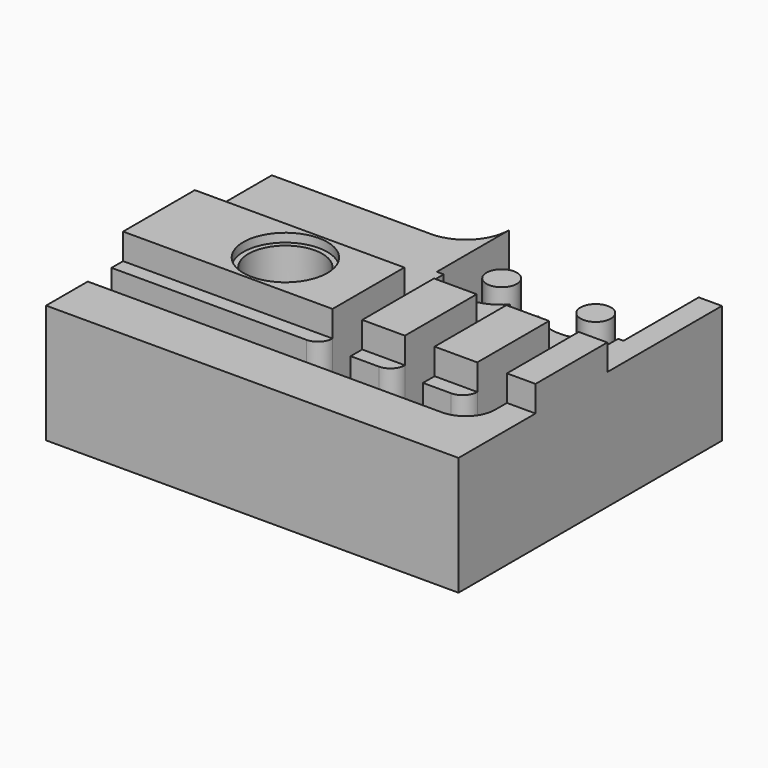
from build123d import *

# Parameters (mm, degrees)
PAD004_DEPTH    = 8.2
SKETCH014_W     = 28.5
SKETCH014_H     = 6.2
PAD005_DEPTH    = 1.8
SKETCH015_R     = 2.9
POCKET004_DEPTH = 0.6
SKETCH016_W     = 2.05
SKETCH016_H     = 6.2
POCKET005_DEPTH = 1.8
SKETCH018_R     = 1.05
POCKET007_DEPTH = 6
POCKET006_DEPTH = 4
SKETCH019_R     = 2.55
POCKET008_DEPTH = 7.5
SKETCH020_R     = 7
POCKET_DEPTH    = 3


with BuildPart() as stage_1_railguide:
    # Sketch013 → Pad004 (new body)
    with BuildSketch(Plane.XY):
        with BuildLine():
            Line((0, 0), (28.5, 0))
            Line((28.5, 0), (28.5, 22.75))
            Line((28.5, 22.75), (14, 22.75))
            Line((14, 22.75), (14, 22.5))
            ThreePointArc((11, 19.5), (13.12132, 20.37868), (14, 22.5))
            Line((11, 19.5), (0, 19.5))
            Line((0, 19.5), (0, 0))
        make_face()
    extrude(amount=PAD004_DEPTH)

    # Sketch014 (on Face9 of Pad004) → Pad005 (join)
    with BuildSketch(Plane.XY.offset(8.2)):
        with Locations((14.25, 9.75)):
            Rectangle(SKETCH014_W, SKETCH014_H)
    extrude(amount=PAD005_DEPTH)

    # Sketch015 (on Face11 of Pad005) → Pocket004 (cut)
    with BuildSketch(Plane.XY.offset(10)):
        with Locations((8.735056, 9.75)):
            Circle(SKETCH015_R)
    extrude(amount=-POCKET004_DEPTH, mode=Mode.SUBTRACT)

    # Sketch016 (on Face10 of Pocket004) → Pocket005 (cut)
    with BuildSketch(Plane.XY.offset(10)):
        with Locations((15.5, 9.75)):
            Rectangle(SKETCH016_W, SKETCH016_H)
        Polygon((21.525, 12.85), (21.525, 6.65), (19.475, 6.65), (19.475, 12.85), (20.5, 12.85), align=None)
        with Locations((25.5, 9.75)):
            Rectangle(SKETCH016_W, SKETCH016_H)
    extrude(amount=-POCKET005_DEPTH, mode=Mode.SUBTRACT)


with BuildPart() as body:
    # Body006 base: copy of Stage#1(RailGuide)
    add(stage_1_railguide.part)

    # Sketch018 (on Face19 of Clone001) → Pocket007 (cut)
    with BuildSketch(Plane.XY.offset(8.2)):
        with BuildLine():
            Line((14, 22.75), (26.9, 22.75))
            Line((26.9, 22.75), (26.9, 16.25))
            Line((26.355184, 16.25), (26.9, 16.25))
            ThreePointArc((21.044816, 16.25), (23.7, 14.75), (26.355184, 16.25))
            Line((20.45, 16.25), (21.044816, 16.25))
            Line((19.855184, 16.25), (20.45, 16.25))
            ThreePointArc((14.544816, 16.25), (17.2, 14.75), (19.855184, 16.25))
            Line((14, 16.25), (14.544816, 16.25))
            Line((14, 16.25), (14, 22.75))
        make_face()
        with Locations((17.2, 17.85)):
            Circle(SKETCH018_R, mode=Mode.SUBTRACT)
        with Locations((23.7, 17.85)):
            Circle(SKETCH018_R, mode=Mode.SUBTRACT)
    extrude(amount=-POCKET007_DEPTH, mode=Mode.SUBTRACT)


with BuildPart() as body008:
    # Body005 base: copy of Stage#1(RailGuide)
    add(stage_1_railguide.part)

    # Sketch017 (on Face19 of Clone) → Pocket006 (cut)
    with BuildSketch(Plane.XY.offset(8.2)):
        with BuildLine():
            Line((0, 5.65), (13.475, 5.65))
            ThreePointArc((13.475, 5.65), (14.182107, 5.942893), (14.475, 6.65))
            Line((14.475, 6.65), (14.475, 16.75))
            Line((14.475, 16.75), (16.525, 16.75))
            Line((16.525, 16.75), (16.525, 5.65))
            Line((16.525, 5.65), (18.475, 5.65))
            ThreePointArc((18.475, 5.65), (19.182107, 5.942893), (19.475, 6.65))
            Line((19.475, 6.65), (19.475, 16.75))
            Line((19.475, 16.75), (21.525, 16.75))
            Line((21.525, 16.75), (21.525, 5.649972))
            Line((21.525, 5.649972), (23.475, 5.649972))
            ThreePointArc((23.475, 5.649972), (24.182107, 5.942865), (24.475, 6.649972))
            Line((24.475, 6.649972), (24.475, 16.75))
            Line((24.475, 16.75), (26.525, 16.75))
            Line((26.525, 16.75), (26.525, 5.65))
            ThreePointArc((24.475, 3.6), (25.924569, 4.200431), (26.525, 5.65))
            Line((24.475, 3.6), (0, 3.6))
            Line((0, 3.6), (0, 5.65))
        make_face()
    extrude(amount=-POCKET006_DEPTH, mode=Mode.SUBTRACT)

    # Sketch019 (on Face37 of Pocket006) → Pocket008 (cut)
    with BuildSketch(Plane.XY.offset(9.4)):
        with Locations((8.735056, 9.75)):
            Circle(SKETCH019_R)
    extrude(amount=-POCKET008_DEPTH, mode=Mode.SUBTRACT)

    # Sketch020 (on Face4 of Pocket008) → Pocket (cut)
    with BuildSketch(Plane(origin=(0, 0, 0), x_dir=(1, 0, 0), z_dir=(0, 0, -1))):
        with Locations((8.735056, -9.75)):
            Circle(SKETCH020_R)
    extrude(amount=-POCKET_DEPTH, mode=Mode.SUBTRACT)

    # Common: intersect Body
    add(body.part, mode=Mode.INTERSECT)


solid = body008.part
